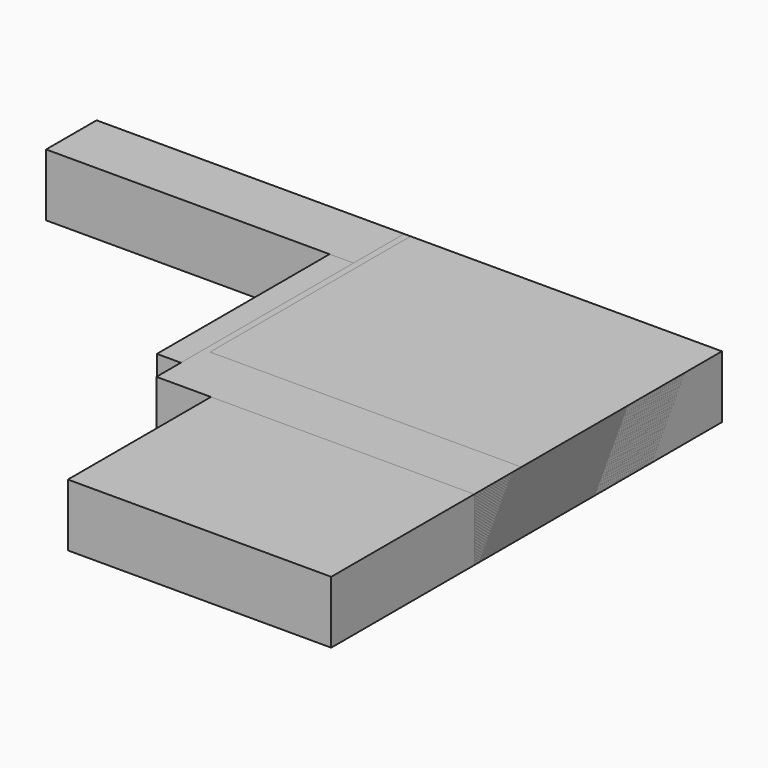
from build123d import *

# Parameters (mm, degrees)
SKETCH_W     = 34.929359
SKETCH_H     = 20.486658
PAD_DEPTH    = 10
SKETCH001_W  = 20.015697
SKETCH001_H  = 44.976456
PAD001_DEPTH = 10
SKETCH002_W  = 29.960587
SKETCH002_H  = 30.027189
PAD002_DEPTH = 10
SKETCH003_W  = 54.766457
SKETCH003_H  = 44.701084
PAD003_DEPTH = 10
SKETCH004_W  = 42.188831
SKETCH004_H  = 78.241425
PAD004_DEPTH = 10
SKETCH005_W  = 100.185661
SKETCH005_H  = 10.112617
PAD005_DEPTH = 10
SKETCH006_W  = 49.87516
SKETCH006_H  = 40.159164
PAD006_DEPTH = 10
SKETCH008_W  = 50.923298
SKETCH008_H  = 49.592381
PAD008_DEPTH = 10
SKETCH009_W  = 29.960587
SKETCH009_H  = 30.027189
PAD009_DEPTH = 10
SKETCH010_W  = 49.87516
SKETCH010_H  = 40.159164
PAD010_DEPTH = 10


with BuildPart() as body:
    # Sketch → Pad (new body)
    with BuildSketch(Plane.XY):
        with Locations((17.464679, 10.243329)):
            Rectangle(SKETCH_W, SKETCH_H)
    extrude(amount=PAD_DEPTH)


with BuildPart() as body_1:
    # Body placement: moved
    add(body.part.moved(Location((-34.929359, -20.486658, 0))))


with BuildPart() as body001:
    # Sketch001 → Pad001 (new body)
    with BuildSketch(Plane.XY):
        with Locations((10.007848, 22.488228)):
            Rectangle(SKETCH001_W, SKETCH001_H)
    extrude(amount=PAD001_DEPTH)


with BuildPart() as body001_1:
    # Body001 placement: moved
    add(body001.part.moved(Location((-20.015697, -44.976456, 0))))


with BuildPart() as body002:
    # Sketch002 → Pad002 (new body)
    with BuildSketch(Plane.XY):
        with Locations((14.980294, 15.013594)):
            Rectangle(SKETCH002_W, SKETCH002_H)
    extrude(amount=PAD002_DEPTH)


with BuildPart() as body002_1:
    # Body002 placement: moved
    add(body002.part.moved(Location((-29.960587, -30.027189, 0))))


with BuildPart() as body003:
    # Sketch003 → Pad003 (new body)
    with BuildSketch(Plane.XY):
        with Locations((27.383228, 22.350542)):
            Rectangle(SKETCH003_W, SKETCH003_H)
    extrude(amount=PAD003_DEPTH)


with BuildPart() as body003_1:
    # Body003 placement: moved
    add(body003.part.moved(Location((-54.766457, -44.701084, 0))))


with BuildPart() as body004:
    # Sketch004 → Pad004 (new body)
    with BuildSketch(Plane.XY):
        with Locations((21.094416, 39.120712)):
            Rectangle(SKETCH004_W, SKETCH004_H)
    extrude(amount=PAD004_DEPTH)


with BuildPart() as body004_1:
    # Body004 placement: moved
    add(body004.part.moved(Location((-42.188831, -78.241425, 0))))


with BuildPart() as body005:
    # Sketch005 → Pad005 (new body)
    with BuildSketch(Plane.XY):
        with Locations((50.09283, 5.056309)):
            Rectangle(SKETCH005_W, SKETCH005_H)
    extrude(amount=PAD005_DEPTH)


with BuildPart() as body005_1:
    # Body005 placement: moved
    add(body005.part.moved(Location((-100.185661, -10.112617, 0))))


with BuildPart() as body006:
    # Sketch006 → Pad006 (new body)
    with BuildSketch(Plane.XY):
        with Locations((24.93758, 20.079582)):
            Rectangle(SKETCH006_W, SKETCH006_H)
    extrude(amount=PAD006_DEPTH)


with BuildPart() as body006_1:
    # Body006 placement: moved
    add(body006.part.moved(Location((-49.87516, -40.159164, 0))))


with BuildPart() as body008:
    # Sketch008 → Pad008 (new body)
    with BuildSketch(Plane.XY):
        with Locations((25.461649, 24.79619)):
            Rectangle(SKETCH008_W, SKETCH008_H)
    extrude(amount=PAD008_DEPTH)


with BuildPart() as body008_1:
    # Body008 placement: moved
    add(body008.part.moved(Location((-50.923298, -49.592381, 0))))


with BuildPart() as body009:
    # Sketch009 → Pad009 (new body)
    with BuildSketch(Plane.XY):
        with Locations((14.980294, 15.013594)):
            Rectangle(SKETCH009_W, SKETCH009_H)
    extrude(amount=PAD009_DEPTH)


with BuildPart() as body009_1:
    # Body009 placement: moved
    add(body009.part.moved(Location((-29.960587, -30.027189, 0))))


with BuildPart() as body010:
    # Sketch010 → Pad010 (new body)
    with BuildSketch(Plane.XY):
        with Locations((24.93758, 20.079582)):
            Rectangle(SKETCH010_W, SKETCH010_H)
    extrude(amount=PAD010_DEPTH)


with BuildPart() as body010_1:
    # Body010 placement: moved
    add(body010.part.moved(Location((-49.87516, -40.159164, 0))))


solid = Compound([body_1.part, body001_1.part, body002_1.part, body003_1.part, body004_1.part, body005_1.part, body006_1.part, body008_1.part, body009_1.part, body010_1.part])
